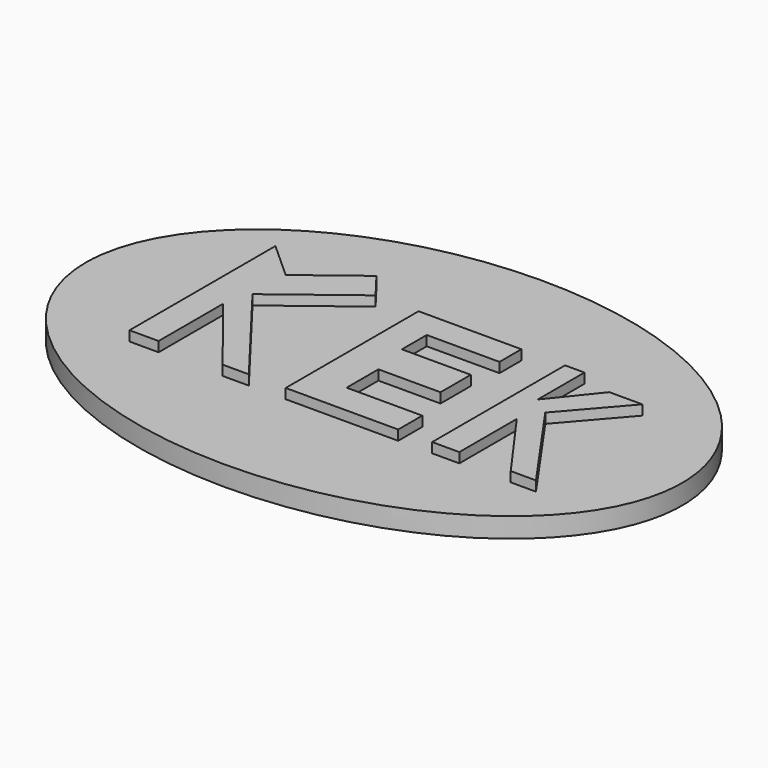
from build123d import *

# Parameters (mm, degrees)
F1_DEPTH = 2.54
F3_DEPTH = 3.81


with BuildPart() as f1:
    # F0 (on Top) → F1 (new body)
    with BuildSketch(Plane.XY):
        with BuildLine():
            add(Edge.make_bspline(
                [(-45.468969, 9.124694), (-45.468969, -34.869396), (11.681031, -12.872351), (68.831031, 9.124694), (11.681031, 31.12174), (-45.468969, 53.118785), (-45.468969, 9.124694)],
                knots=[0, 0, 0, 2.094395, 2.094395, 4.18879, 4.18879, 6.283185, 6.283185, 6.283185], degree=2, weights=[1, 0.5, 1, 0.5, 1, 0.5, 1]))
        make_face()
    extrude(amount=F1_DEPTH)

    # F2 (on Top) → F3 (join)
    with BuildSketch(Plane.XY):
        Polygon((-26.685299, 17.587835), (-31.393521, 21.82702), (-31.393521, -1.466287), (-27.676504, -1.466287), (-27.676504, 8.817459), (-19.499067, -1.466287), (-16.153751, -1.466287), (-26.685299, 12.286675), (-16.940158, 19.749171), (-19.499067, 23.090806), align=None)
        Polygon((1.687928, 19.749171), (-11.445531, 19.749171), (-11.445531, -1.466287), (2.926936, -1.466287), (2.926936, 2.37463), (-6.73731, 2.37463), (-6.73731, 7.454554), (1.192326, 7.454554), (1.192326, 12.286675), (-7.604613, 12.286675), (-7.604613, 16.251493), (1.687928, 16.251493), align=None)
        Polygon((9.741466, 19.749171), (7.263455, 19.749171), (7.263455, -1.466287), (10.732669, -1.466287), (10.732669, 7.702355), (17.299401, -1.466287), (20.520814, -1.466287), (12.095575, 10.552067), (18.538406, 17.986102), (14.325787, 17.986102), (9.741466, 12.286675), align=None)
    extrude(amount=F3_DEPTH)


solid = f1.part
